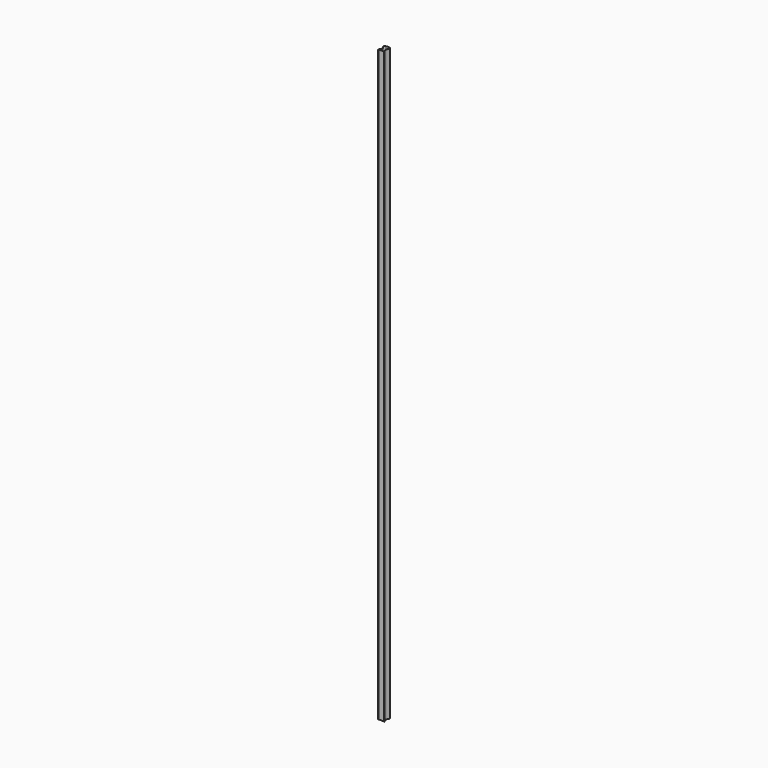
from build123d import *

# Parameters (mm, degrees)
F1_DEPTH = 6000


with BuildPart() as f1:
    # F0 (on Top) → F1 (new body)
    with BuildSketch(Plane.XY):
        with BuildLine():
            ThreePointArc((-200.838676, -33.958443), (-196.318878, -46.40292), (-199.395395, -59.280367))
            Line((-199.395395, -59.280367), (-210.259705, -77.995759))
            ThreePointArc((-210.259705, -77.995759), (-211.564087, -81.441739), (-211.688047, -85.124241))
            Line((-211.688047, -85.124241), (-210.273082, -85.132475))
            ThreePointArc((-210.273082, -85.132475), (-210.275986, -82.201444), (-209.418595, -79.398618))
            Line((-209.418595, -79.398618), (-149.149142, -79.398618))
            ThreePointArc((-149.149142, -79.398618), (-148.291751, -82.201444), (-148.294654, -85.132475))
            Line((-148.294654, -85.132475), (-146.879689, -85.124241))
            ThreePointArc((-146.879689, -85.124241), (-147.00365, -81.441739), (-148.308032, -77.995759))
            Line((-148.308032, -77.995759), (-159.172342, -59.280367))
            ThreePointArc((-159.172342, -59.280367), (-162.248858, -46.40292), (-157.729061, -33.958443))
            Line((-157.729061, -33.958443), (-149.78248, -23.281573))
            ThreePointArc((-149.78248, -23.281573), (-147.414761, -9.902559), (-156.717633, 0))
            ThreePointArc((-156.717633, 0), (-167.839274, 3.328572), (-179.283868, 5.275759))
            ThreePointArc((-179.283868, 5.275759), (-190.728463, 3.328572), (-201.850104, 0))
            ThreePointArc((-201.850104, 0), (-211.152975, -9.902559), (-208.785256, -23.281573))
            Line((-208.785256, -23.281573), (-200.838676, -33.958443))
        make_face()
        with BuildLine():
            Line((-208.642574, -77.998618), (-198.184614, -59.983226))
            ThreePointArc((-198.184614, -59.983226), (-194.921147, -46.323253), (-199.7156, -33.12256))
            Line((-199.7156, -33.12256), (-207.66218, -22.44569))
            ThreePointArc((-207.66218, -22.44569), (-209.811238, -10.302238), (-201.367494, -1.314187))
            ThreePointArc((-201.367494, -1.314187), (-190.483231, 1.948122), (-179.283868, 3.867525))
            ThreePointArc((-179.283868, 3.867525), (-168.084505, 1.948122), (-157.200243, -1.314187))
            ThreePointArc((-157.200243, -1.314187), (-148.756498, -10.302238), (-150.905556, -22.44569))
            Line((-150.905556, -22.44569), (-158.852137, -33.12256))
            ThreePointArc((-158.852137, -33.12256), (-163.64659, -46.323253), (-160.383122, -59.983226))
            Line((-160.383122, -59.983226), (-149.925163, -77.998618))
            Line((-149.925163, -77.998618), (-208.642574, -77.998618))
        make_face(mode=Mode.SUBTRACT)
    extrude(amount=F1_DEPTH)


solid = f1.part
